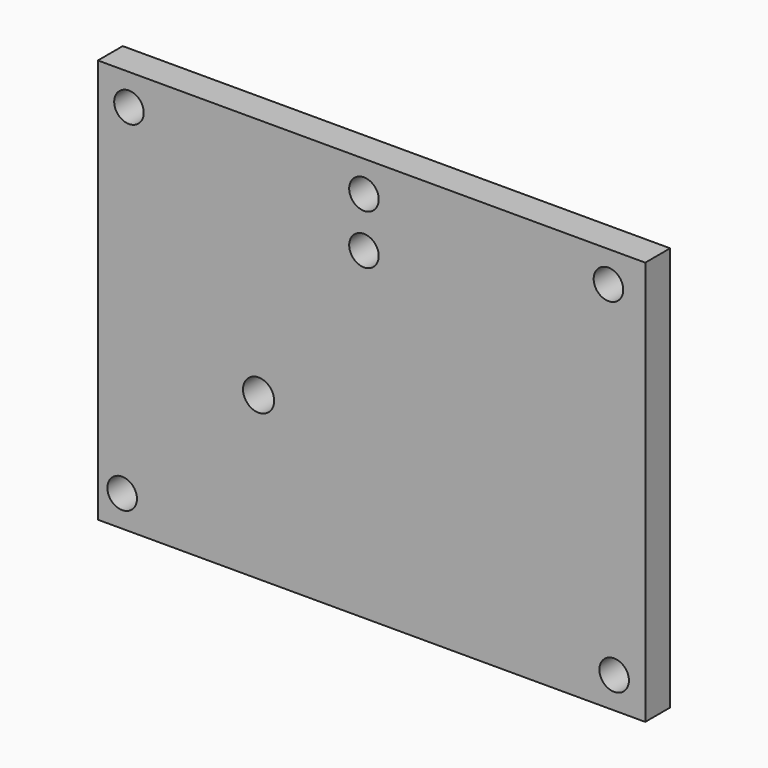
from build123d import *

# Parameters (mm, degrees)
F2_W     = 88
F2_H     = 65
F2_R     = 2.375
F2_R_2   = 2.5
F3_DEPTH = 5


with BuildPart() as f3:
    # F2 (on Front) → F3 (new body)
    with BuildSketch(Plane.XZ):
        with Locations((18.163575, 6.457009)):
            Rectangle(F2_W, F2_H)
        with Locations((-21.928577, -21.042991)):
            Circle(F2_R, mode=Mode.SUBTRACT)
        Circle(F2_R_2, mode=Mode.SUBTRACT)
        with Locations((57.163575, -21.042991)):
            Circle(F2_R, mode=Mode.SUBTRACT)
        with Locations((-20.836425, 33.957009)):
            Circle(F2_R, mode=Mode.SUBTRACT)
        with Locations((16.940257, 25.957009)):
            Circle(F2_R, mode=Mode.SUBTRACT)
        with Locations((16.940257, 33.957009)):
            Circle(F2_R, mode=Mode.SUBTRACT)
        with Locations((56.248803, 33.957009)):
            Circle(F2_R, mode=Mode.SUBTRACT)
    extrude(amount=F3_DEPTH)


solid = f3.part
